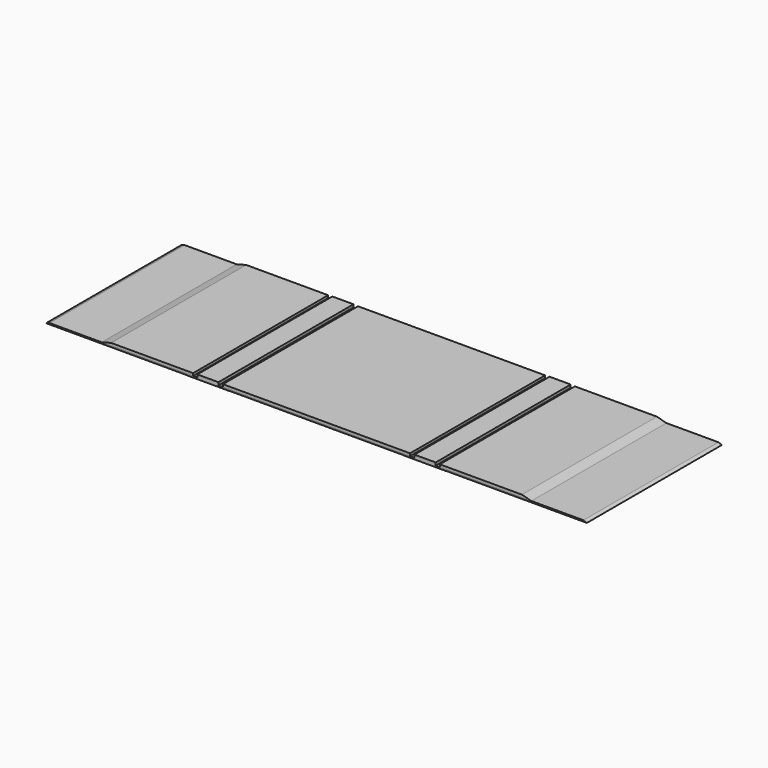
from build123d import *

# Parameters (mm, degrees)
F0_W      = 150
F0_H      = 20
F1_DEPTH  = 600
F3_W      = 621
F3_H      = 9
F4_DEPTH  = 600
F5_DEPTH  = 600
F7_DEPTH  = 600
F9_DEPTH  = 600
F12_W     = 1330
F12_H     = 18
F13_DEPTH = 600


with BuildPart() as f1:
    # F0 (on Front) → F1 (new body, symmetric)
    with BuildSketch(Plane.XZ):
        with Locations((-772, 10)):
            Rectangle(F0_W, F0_H)
        Polygon((-697, 0), (-847, 0), (-922, 0), (-922, -10), (-622, -10), (-622, 0), align=None)
    extrude(amount=F1_DEPTH, both=True)


with BuildPart() as f2_1:
    # F2: instance of F1
    add(f1.part.mirror(Plane.YZ))


with BuildPart() as f4:
    # F3 (on Front) → F4 (new body, symmetric)
    with BuildSketch(Plane.XZ):
        with Locations((-310.5, -4.5)):
            Rectangle(F3_W, F3_H)
        with Locations((310.5, -4.5)):
            Rectangle(F3_W, F3_H)
    extrude(amount=F4_DEPTH, both=True)


with BuildPart() as f5:
    # F3 (on Front) → F5 (new body, symmetric)
    with BuildSketch(Plane.XZ):
        with Locations((-310.5, -4.5)):
            Rectangle(F3_W, F3_H)
        with Locations((310.5, -4.5)):
            Rectangle(F3_W, F3_H)
    extrude(amount=F5_DEPTH, both=True)


with BuildPart() as f7:
    # F6 (on Front) → F7 (new body, symmetric)
    with BuildSketch(Plane.XZ):
        Polygon((-922, -9), (-922, 0), (-1897.272703, 0), (-1922, -9), align=None)
    extrude(amount=F7_DEPTH, both=True)


with BuildPart() as f9:
    # F8 (on Front) → F9 (new body, symmetric)
    with BuildSketch(Plane.XZ):
        Polygon((-877, 0), (-877, 18), (-1459.823085, 18), (-1527, 0), align=None)
    extrude(amount=F9_DEPTH, both=True)


with BuildPart() as f10_1:
    # F10: instance of F9
    add(f9.part.mirror(Plane.YZ))


with BuildPart() as f10_2:
    # F10: instance of F7
    add(f7.part.mirror(Plane.YZ))


with BuildPart() as f13:
    # F12 (on Front) → F13 (new body, symmetric)
    with BuildSketch(Plane.XZ):
        with Locations((0, 9)):
            Rectangle(F12_W, F12_H)
    extrude(amount=F13_DEPTH, both=True)


solid = Compound([f1.part, f2_1.part, f4.part, f7.part, f9.part, f10_1.part, f10_2.part, f13.part])
